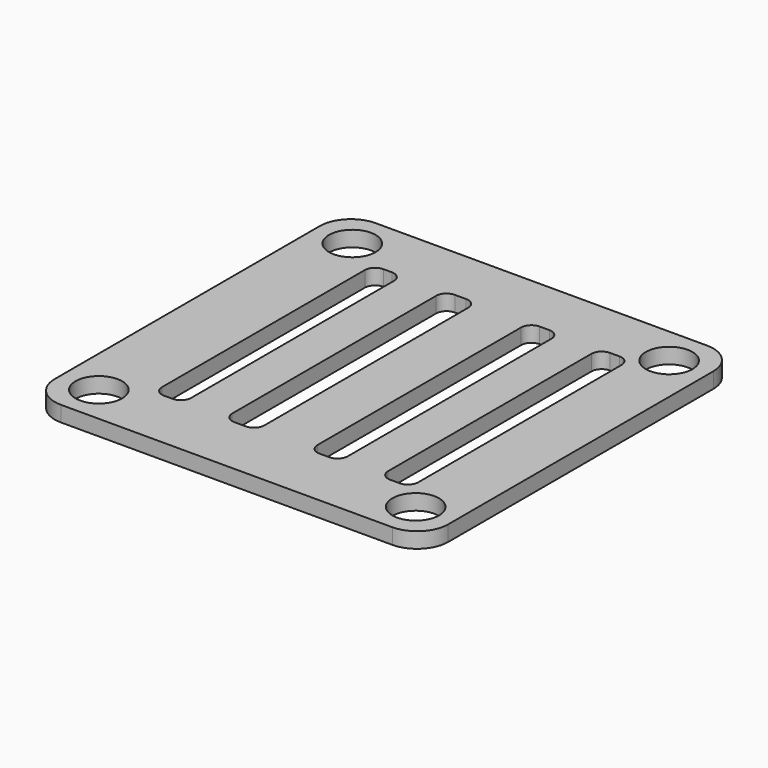
from build123d import *

# Parameters (mm, degrees)
F0_W     = 38
F0_H     = 38
F1_DEPTH = 1.5
F2_R     = 2.25
F2_W     = 2.816632
F2_H     = 26.474444
F2_W_2   = 3.106516
F2_H_2   = 26.623748
F2_W_3   = 2.935091
F2_H_3   = 26.58009
F2_W_4   = 2.913202
F2_H_4   = 26.536286
F3_DEPTH = 1.501
F4_R     = 3
F5_R     = 1


with BuildPart() as f1:
    # F0 (on Top) → F1 (new body)
    with BuildSketch(Plane.XY):
        with Locations((-24.108174, 19)):
            Rectangle(F0_W, F0_H)
    extrude(amount=F1_DEPTH)

    # F2 (on face) → F3 (cut, through all)
    with BuildSketch(Plane.XY.offset(1.5)):
        with Locations((-39.408174, 34.3)):
            Circle(F2_R)
        with Locations((-8.808174, 34.3)):
            Circle(F2_R)
        with Locations((-8.808174, 3.7)):
            Circle(F2_R)
        with Locations((-39.408174, 3.7)):
            Circle(F2_R)
        with Locations((-34.555089, 19.259251)):
            Rectangle(F2_W, F2_H)
        with Locations((-27.583793, 19.268872)):
            Rectangle(F2_W_2, F2_H_2)
        with Locations((-19.434359, 19.247043)):
            Rectangle(F2_W_3, F2_H_3)
        with Locations((-12.618669, 19.225141)):
            Rectangle(F2_W_4, F2_H_4)
    extrude(amount=-F3_DEPTH, mode=Mode.SUBTRACT)

    # F4
    f4_edges = [f1.edges().sort_by_distance(p)[0] for p in [
        (-43.108174, 38, 0.75),
        (-5.108174, 38, 0.75),
        (-5.108174, 0, 0.75),
        (-43.108174, 0, 0.75),
    ]]
    fillet(f4_edges, radius=F4_R)

    # F5
    f5_edges = [f1.edges().sort_by_distance(p)[0] for p in [
        (-35.963405, 32.496473, 0.75),
        (-35.963405, 6.022029, 0.75),
        (-29.137051, 5.956998, 0.75),
        (-20.901905, 5.956998, 0.75),
        (-14.07527, 5.956998, 0.75),
        (-11.162068, 5.956998, 0.75),
        (-17.966814, 5.956998, 0.75),
        (-26.030535, 5.956998, 0.75),
        (-33.146773, 6.022029, 0.75),
        (-11.162068, 32.493284, 0.75),
        (-17.966814, 32.537088, 0.75),
        (-26.030535, 32.580746, 0.75),
        (-33.146773, 32.496473, 0.75),
        (-29.137051, 32.580746, 0.75),
        (-20.901905, 32.537088, 0.75),
        (-14.07527, 32.493284, 0.75),
    ]]
    fillet(f5_edges, radius=F5_R)


solid = f1.part
